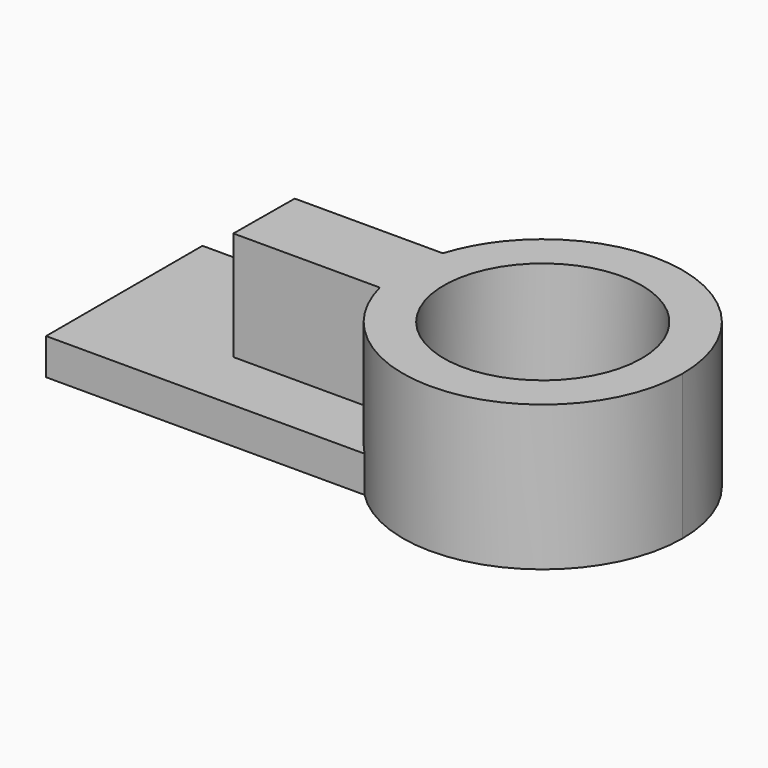
from build123d import *

# Parameters (mm, degrees)
F1_DEPTH = 6.35
F0_R     = 17.314711
F2_DEPTH = 25.4
F3_DEPTH = 25.4


with BuildPart() as f1:
    # F0 (on Top) → F1 (new body)
    with BuildSketch(Plane.XY):
        with BuildLine():
            Line((-28.557787, 28.316794), (-28.557787, -5.904352))
            Line((-28.557787, -5.904352), (27.187924, -5.904352))
            ThreePointArc((27.187924, -5.904352), (23.335338, -0.750448), (20.958387, 5.229121))
            Line((20.958387, 5.229121), (-4.677194, 5.229121))
            Line((-4.677194, 5.229121), (-4.579983, 18.536286))
            Line((-4.579983, 18.536286), (21.340561, 18.536286))
            ThreePointArc((21.340561, 18.536286), (23.687391, 23.771415), (27.187924, 28.316794))
            Line((27.187924, 28.316794), (-28.557787, 28.316794))
        make_face()
    extrude(amount=F1_DEPTH)

    # F0 (on Top) → F2 (join)
    with BuildSketch(Plane.XY):
        with BuildLine():
            ThreePointArc((20.958387, 5.229121), (23.335338, -0.750448), (27.187924, -5.904352))
            ThreePointArc((27.187924, -5.904352), (53.942294, -11.471062), (69.191078, 11.206221))
            ThreePointArc((69.191078, 11.206221), (53.942294, 33.883504), (27.187924, 28.316794))
            ThreePointArc((27.187924, 28.316794), (23.687391, 23.771415), (21.340561, 18.536286))
            ThreePointArc((21.340561, 18.536286), (20.227784, 11.909174), (20.958387, 5.229121))
        make_face()
        with Locations((44.704385, 11.206221)):
            Circle(F0_R, mode=Mode.SUBTRACT)
    extrude(amount=F2_DEPTH)

    # F0 (on Top) → F3 (join)
    with BuildSketch(Plane.XY):
        with BuildLine():
            Line((-4.677194, 5.229121), (20.958387, 5.229121))
            ThreePointArc((20.958387, 5.229121), (20.227784, 11.909174), (21.340561, 18.536286))
            Line((21.340561, 18.536286), (-4.579983, 18.536286))
            Line((-4.579983, 18.536286), (-4.677194, 5.229121))
        make_face()
    extrude(amount=F3_DEPTH)


solid = f1.part
